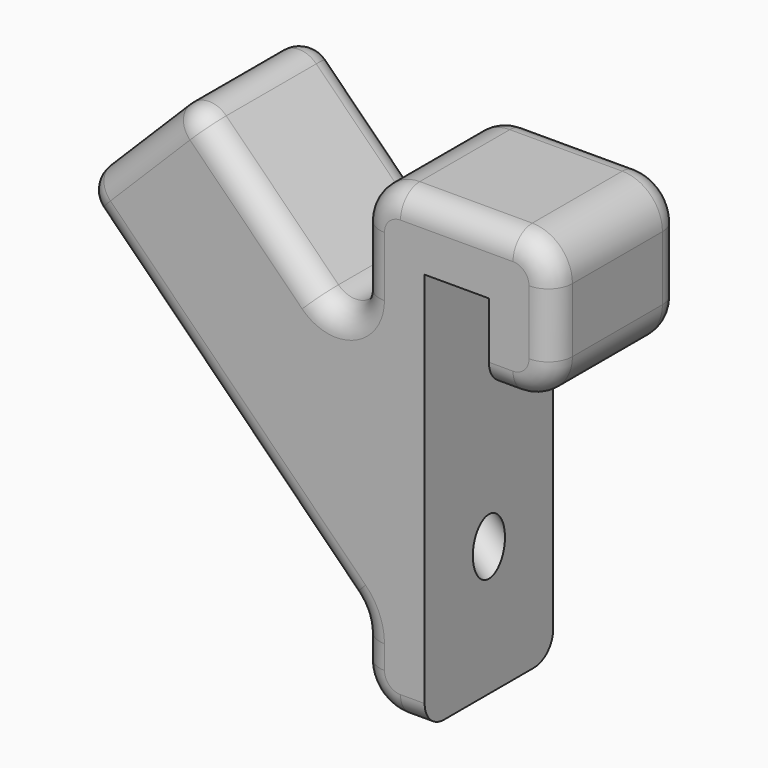
from build123d import *

# Parameters (mm, degrees)
F1_DEPTH = 20
F2_W     = 13
F2_H     = 13
F3_DEPTH = 40
F4_R     = 2.5
F5_DEPTH = 14.813708499
F6_R     = 3


with BuildPart() as f1:
    # F0 (on Front) → F1 (new body)
    with BuildSketch(Plane.XZ):
        with BuildLine():
            Line((0, 10), (0, 0))
            Line((0, 0), (3, 0))
            ThreePointArc((3, 0), (6.5355339059, 1.4644660941), (8, 5))
            Line((8, 5), (8, 13))
            ThreePointArc((8, 13), (6.5355339059, 16.5355339059), (3, 18))
            Line((3, 18), (-11, 18))
            ThreePointArc((-11, 18), (-14.5355339059, 16.5355339059), (-16, 13))
            Line((-16, 13), (-16, 5.5269119346))
            ThreePointArc((-16, 5.5269119346), (-17.8519497029, 2.755273337), (-21.1213203436, 3.405591591))
            Line((-21.1213203436, 3.405591591), (-35.091883092, 17.3761543395))
            ThreePointArc((-35.091883092, 17.3761543395), (-37.2132034356, 18.2548339959), (-39.3345237792, 17.3761543395))
            Line((-39.3345237792, 17.3761543395), (-49.2340187158, 7.4766594029))
            ThreePointArc((-49.2340187158, 7.4766594029), (-50.1126983722, 5.3553390593), (-49.2340187158, 3.2340187158))
            Line((-49.2340187158, 3.2340187158), (-17.4644660941, -28.5355339059))
            ThreePointArc((-17.4644660941, -28.5355339059), (-16.3806023374, -30.15765065), (-16, -32.0710678119))
            Line((-16, -32.0710678119), (-16, -35))
            ThreePointArc((-16, -35), (-14.5355339059, -38.5355339059), (-11, -40))
            Line((-11, -40), (-8, -40))
            Line((-8, -40), (-8, 10))
            Line((-8, 10), (0, 10))
        make_face()
    extrude(amount=F1_DEPTH)

    # F2 (on face) → F3 (cut)
    with BuildSketch(Plane(origin=(-28.3553390593, 0, 28.3553390593), x_dir=(0, -1, 0), z_dir=(-0.7071067812, 0, 0.7071067812))):
        with Locations((10, -22.5269119346)):
            Rectangle(F2_W, F2_H)
    extrude(amount=-F3_DEPTH, mode=Mode.SUBTRACT)

    # F4 (on face) → F5 (cut, up to face)
    with BuildSketch(Plane(origin=(-0.0710678119, 0, 0.0710678119), x_dir=(0, -1, 0), z_dir=(-0.7071067812, 0, 0.7071067812))):
        with Locations((10, -22.5269119346)):
            Circle(F4_R)
    extrude(amount=-F5_DEPTH, mode=Mode.SUBTRACT)

    # F6
    f6_edges = [f1.edges().sort_by_distance(p)[0] for p in [
        (-44.284271, -20, 12.426407),
        (-44.284271, 0, 12.426407),
    ]]
    fillet(f6_edges, radius=F6_R)


solid = f1.part
